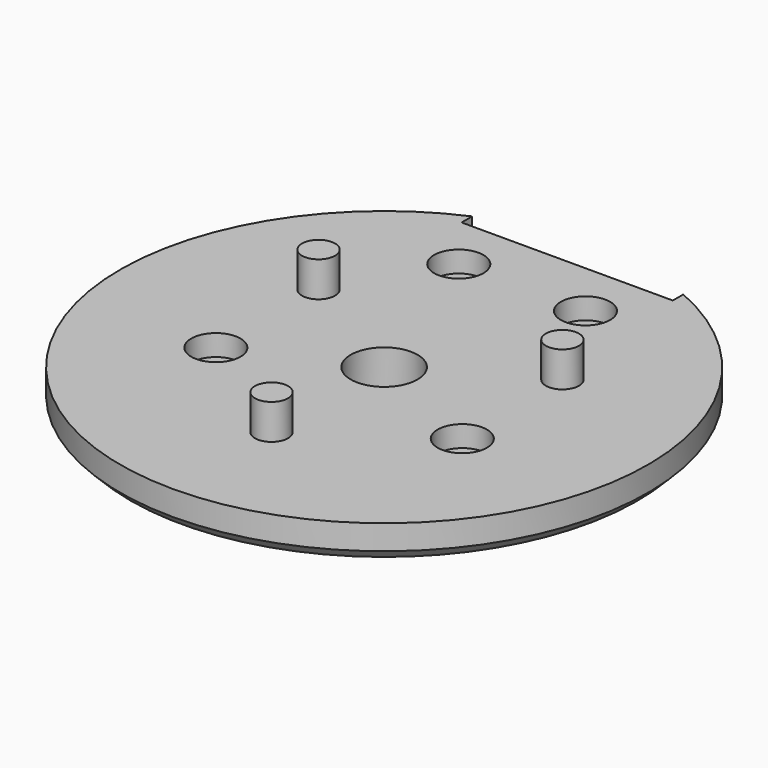
from build123d import *

# Parameters (mm, degrees)
SKETCH_R     = 4.75
SKETCH_R_2   = 2
PAD_DEPTH    = 5
SKETCH001_R  = 2.35
PAD001_DEPTH = 5
SKETCH002_R  = 3.5
POCKET_DEPTH = 3
CHAMFER_SIZE = 1.5


with BuildPart() as part:
    # Sketch → Pad (new body)
    with BuildSketch(Plane.XY):
        with BuildLine():
            ThreePointArc((-15, 34.369318), (0, -37.5), (15, 34.369318))
            Line((15, 32.5), (15, 34.369318))
            Line((-15, 32.5), (15, 32.5))
            Line((-15, 34.369318), (-15, 32.5))
        make_face()
        Circle(SKETCH_R, mode=Mode.SUBTRACT)
        with Locations((-9, 24.5)):
            Circle(SKETCH_R_2, mode=Mode.SUBTRACT)
        with Locations((9, 24.5)):
            Circle(SKETCH_R_2, mode=Mode.SUBTRACT)
        with Locations((-17.5, -8)):
            Circle(SKETCH_R_2, mode=Mode.SUBTRACT)
        with Locations((17.5, -8)):
            Circle(SKETCH_R_2, mode=Mode.SUBTRACT)
    extrude(amount=PAD_DEPTH)

    # Sketch001 (on Face11 of Pad) → Pad001 (join)
    with BuildSketch(Plane.XY.offset(5)):
        with Locations((17.320508, 10)):
            Circle(SKETCH001_R)
        with Locations((-17.320508, 10)):
            Circle(SKETCH001_R)
        with Locations((0, -20)):
            Circle(SKETCH001_R)
    extrude(amount=PAD001_DEPTH)

    # Sketch002 (on Face5 of Pad001) → Pocket (cut)
    with BuildSketch(Plane.XY.offset(5)):
        with Locations((-9, 24.5)):
            Circle(SKETCH002_R)
        with Locations((9, 24.5)):
            Circle(SKETCH002_R)
        with Locations((17.5, -8)):
            Circle(SKETCH002_R)
        with Locations((-17.5, -8)):
            Circle(SKETCH002_R)
    extrude(amount=-POCKET_DEPTH, mode=Mode.SUBTRACT)

    # Chamfer
    chamfer_edges = [part.edges().sort_by_distance(p)[0] for p in [
        (0, -37.5, 0),
    ]]
    chamfer(chamfer_edges, length=CHAMFER_SIZE)


solid = part.part
